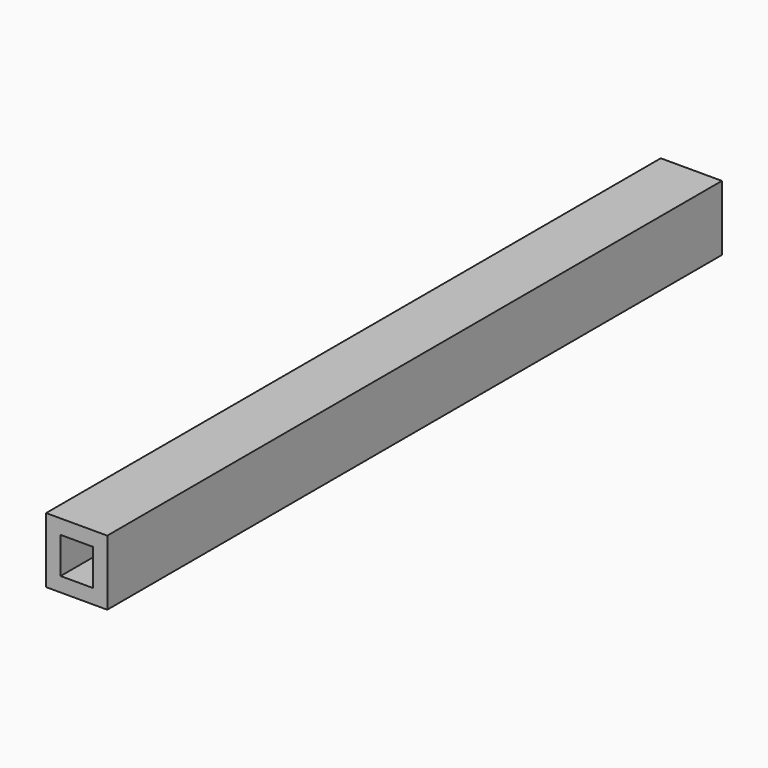
from build123d import *

# Parameters (mm, degrees)
F0_W     = 42.2
F0_H     = 45
F0_W_2   = 22.2
F0_H_2   = 25
F1_DEPTH = 530


with BuildPart() as f1:
    # F0 (on Front) → F1 (new body)
    with BuildSketch(Plane.XZ):
        with Locations((21.1, -22.5)):
            Rectangle(F0_W, F0_H)
        with Locations((21.1, -22.5)):
            Rectangle(F0_W_2, F0_H_2, mode=Mode.SUBTRACT)
    extrude(amount=-F1_DEPTH)


solid = f1.part
